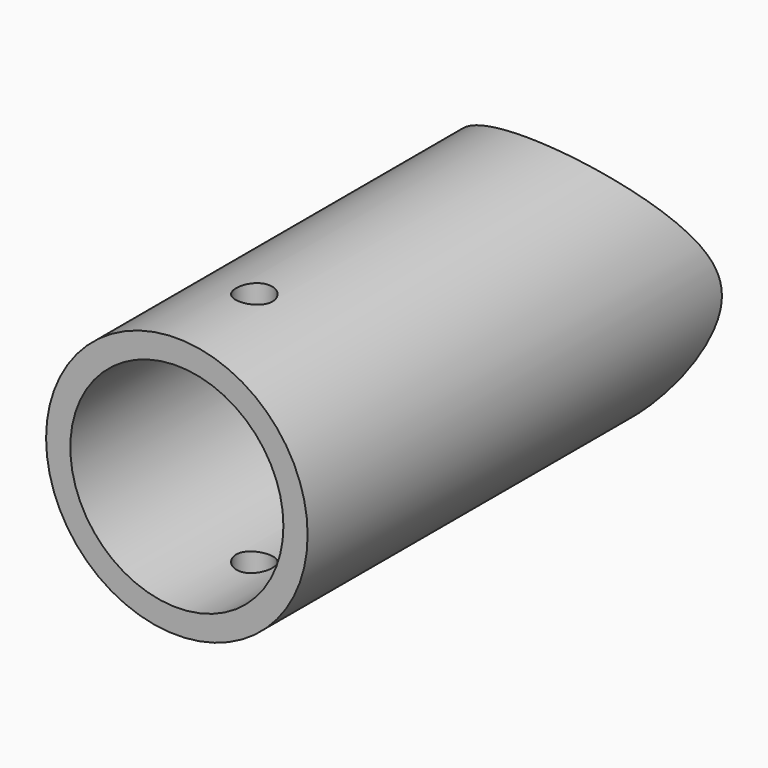
from build123d import *

# Parameters (mm, degrees)
F0_R     = 34.29
F0_R_2   = 27.94
F1_DEPTH = 76.2
F2_R     = 4.7625
F3_DEPTH = 38.1
F4_R     = 38.1
F5_DEPTH = 38.1


with BuildPart() as f1:
    # F0 (on Front) → F1 (new body, symmetric)
    with BuildSketch(Plane.XZ):
        Circle(F0_R)
        Circle(F0_R_2, mode=Mode.SUBTRACT)
    extrude(amount=F1_DEPTH, both=True)

    # F2 (on Top) → F3 (cut, symmetric)
    with BuildSketch(Plane.XY):
        with Locations((0, -50.8)):
            Circle(F2_R)
    extrude(amount=F3_DEPTH, both=True, mode=Mode.SUBTRACT)

    # F4 (on Top) → F5 (cut, symmetric)
    with BuildSketch(Plane.XY):
        with Locations((0, 76.2)):
            Circle(F4_R)
    extrude(amount=F5_DEPTH, both=True, mode=Mode.SUBTRACT)


solid = f1.part
